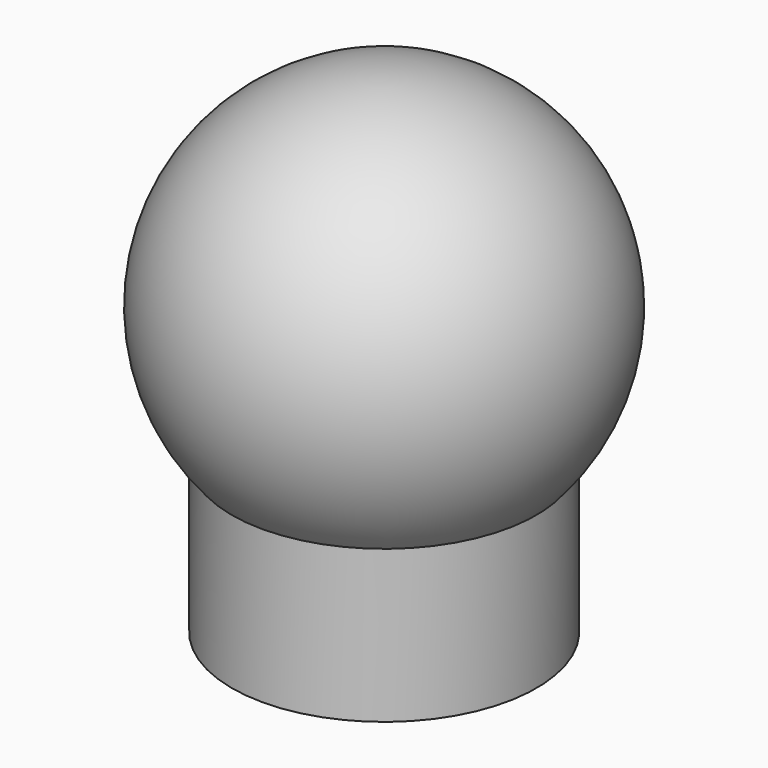
from build123d import *


with BuildPart() as f1:
    # F0 (on Right) → F1 (revolve)
    with BuildSketch(Plane.YZ):
        with BuildLine():
            Line((0, 7.716601), (0, 0))
            Line((0, 0), (2.4, 0))
            Line((2.4, 0), (2.4, 2.4))
            ThreePointArc((2.4, 2.4), (2.916601, 5.833202), (0, 7.716601))
        make_face()
    revolve(axis=Axis((0, 0, 3.858301), (0, 0, 1)))


solid = f1.part
